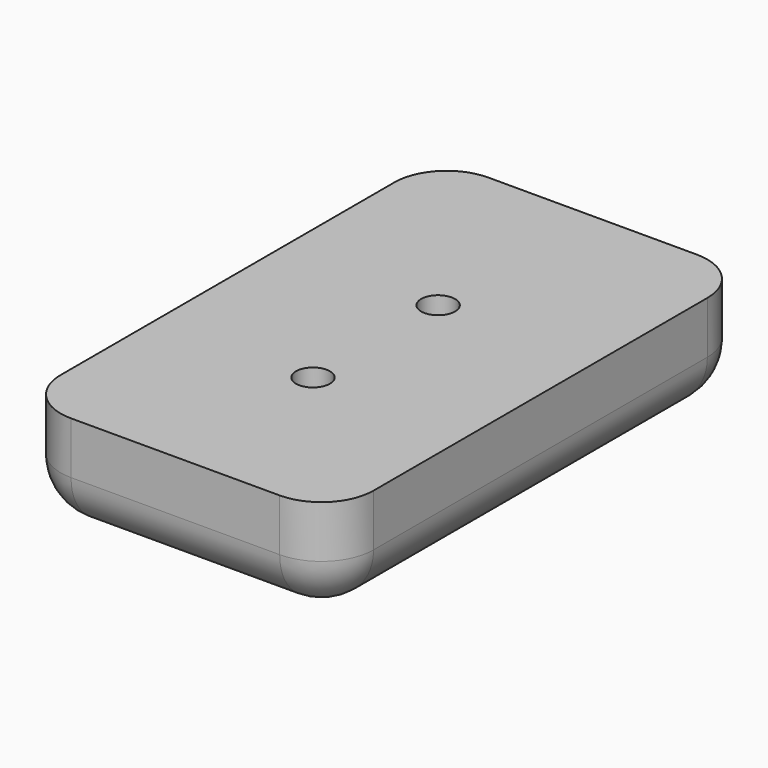
from build123d import *

# Parameters (mm, degrees)
F1_DEPTH = 5
F2_W     = 30
F2_H     = 50
F3_DEPTH = 5
F4_R     = 1.625
F5_DEPTH = 25
F6_R     = 5


with BuildPart() as f1:
    # F0 (on Top) → F1 (new body)
    with BuildSketch(Plane.XY):
        Polygon((-15, 50), (-15, 0), (0, 0), (15, 0), (15, 50), (0, 50), align=None)
        Polygon((3.07439, 18.2625), (3.07439, 14.7125), (0, 12.9375), (-3.07439, 14.7125), (-3.07439, 18.2625), (0, 20.0375), align=None, mode=Mode.SUBTRACT)
        Polygon((3.07439, 29.7125), (0, 27.9375), (-3.07439, 29.7125), (-3.07439, 33.2625), (0, 35.0375), (3.07439, 33.2625), align=None, mode=Mode.SUBTRACT)
    extrude(amount=-F1_DEPTH)

    # F2 (on Top) → F3 (join)
    with BuildSketch(Plane.XY):
        with Locations((0, 25)):
            Rectangle(F2_W, F2_H)
    extrude(amount=F3_DEPTH)

    # F4 (on face) → F5 (cut)
    with BuildSketch(Plane(origin=(0, 0, -5), x_dir=(1, 0, 0), z_dir=(0, 0, -1))):
        with Locations((0, -16.4875)):
            Circle(F4_R)
        with Locations((0, -31.4875)):
            Circle(F4_R)
    extrude(amount=-F5_DEPTH, mode=Mode.SUBTRACT)

    # F6
    f6_edges = [f1.edges().sort_by_distance(p)[0] for p in [
        (0, 0, -5),
        (-15, 25, -5),
        (15, 25, -5),
        (0, 50, -5),
        (15, 50, 0),
        (-15, 0, 0),
        (-15, 50, 0),
        (15, 0, 0),
    ]]
    fillet(f6_edges, radius=F6_R)


solid = f1.part
